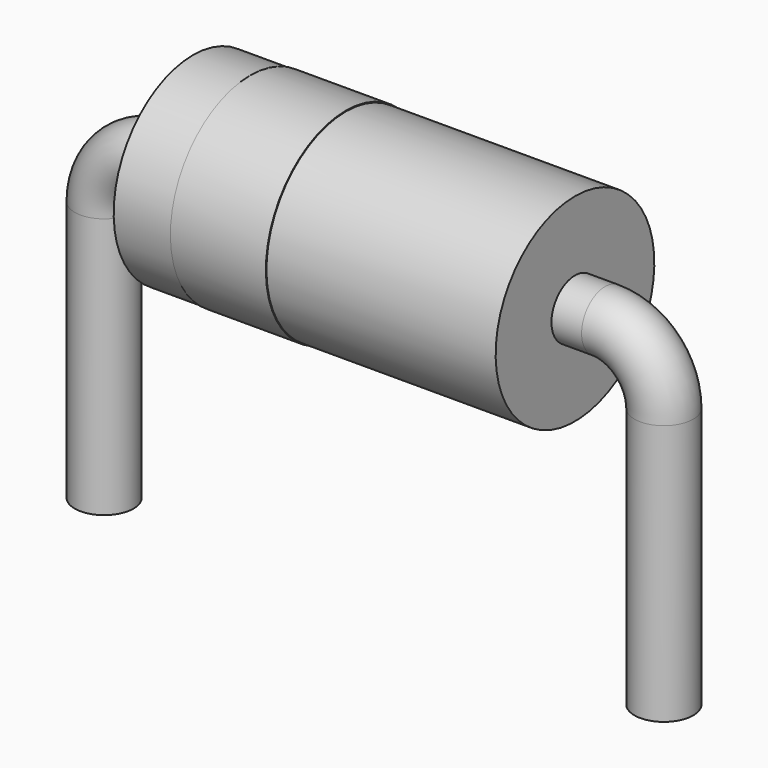
from build123d import *

# Parameters (mm, degrees)
SKETCH002_W = 5.2
SKETCH002_H = 1.35
SKETCH003_W = 1.3
SKETCH003_H = 0.02
SKETCH_R    = 0.4


with BuildPart() as revolution:
    # Sketch002 → Revolution (revolve)
    with BuildSketch(Plane.XZ):
        with Locations((3.81, 2.525)):
            Rectangle(SKETCH002_W, SKETCH002_H)
    revolve(axis=Axis((1.21, 0, 1.85), (1, 0, 0)))


with BuildPart() as revolution001:
    # Sketch003 → Revolution001 (revolve)
    with BuildSketch(Plane.XZ):
        with Locations((2.64, 3.2)):
            Rectangle(SKETCH003_W, SKETCH003_H)
    revolve(axis=Axis((0, 0, 1.85), (1, 0, 0)))


with BuildPart() as sweep_body:
    # Sweep: sweep along a path in Sketch001
    with BuildLine(Plane.XZ) as sweep_path:
        Line((0, -2.5), (0, 1.05))
        ThreePointArc((0, 1.05), (0.234315, 1.615685), (0.8, 1.85))
        Line((0.8, 1.85), (6.82, 1.85))
        ThreePointArc((6.82, 1.85), (7.385685, 1.615685), (7.62, 1.05))
        Line((7.62, 1.05), (7.62, -2.5))
    # Sketch → Sweep (sweep)
    with BuildSketch(Plane.XY.offset(-2)):
        Circle(SKETCH_R)
    sweep(path=sweep_path.line)


solid = Compound([revolution.part, revolution001.part, sweep_body.part])
